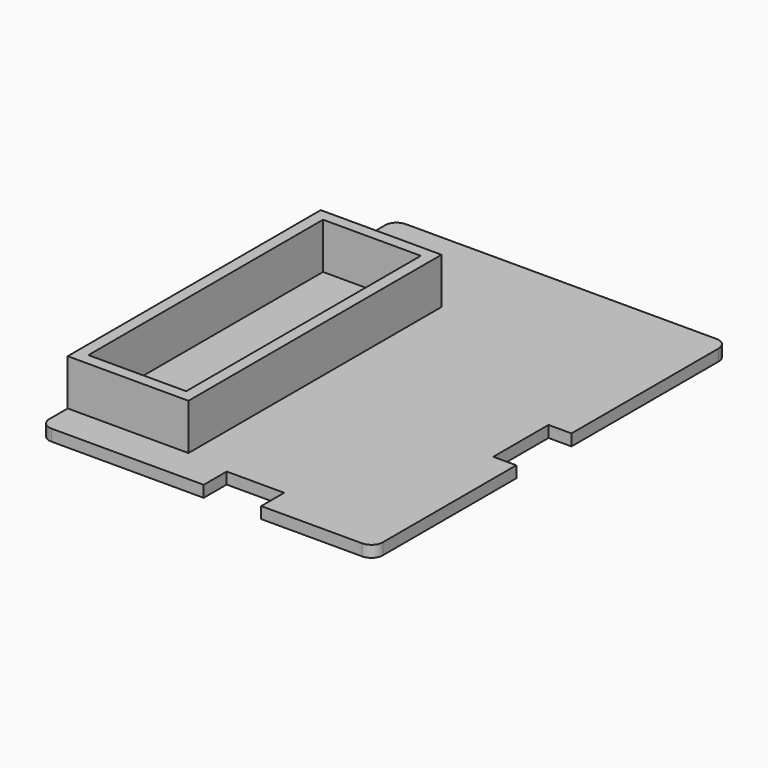
from build123d import *

# Parameters (mm, degrees)
F1_DEPTH = 2
F2_DEPTH = 10
F3_T     = -2
F4_R     = 2


with BuildPart() as f1:
    # F0 (on Top) → F1 (new body)
    with BuildSketch(Plane.XY):
        Polygon((18.3934628367, 39.4180682003), (-3.6065371633, 39.4180682003), (-3.6065371633, 23.4180682003), (17.3934628367, 23.4180682003), (17.3934628367, -31.5819317997), (-3.6065371633, -31.5819317997), (-3.6065371633, -37.5819317997), (24.8428341001, -37.5819317997), (24.8428341001, -32.5819317997), (34.8428341001, -32.5819317997), (34.8428341001, -37.5819317997), (54.3934628367, -37.5819317997), (54.3934628367, -6.5819317997), (50.3934628367, -6.5819317997), (50.3934628367, 5.4180682003), (54.3934628367, 5.4180682003), (54.3934628367, 17.4180682003), (54.3934628367, 39.4180682003), (32.3934628367, 39.4180682003), align=None)
        Polygon((17.3934628367, 23.4180682003), (-3.6065371633, 23.4180682003), (-3.6065371633, 17.4180682003), (-3.6065371633, -31.5819317997), (17.3934628367, -31.5819317997), align=None)
    extrude(amount=F1_DEPTH)

    # F0 (on Top) → F2 (join)
    with BuildSketch(Plane.XY):
        Polygon((17.3934628367, 23.4180682003), (-3.6065371633, 23.4180682003), (-3.6065371633, 17.4180682003), (-3.6065371633, -31.5819317997), (17.3934628367, -31.5819317997), align=None)
    extrude(amount=F2_DEPTH)

    # F3
    f3_openings = [f1.faces().sort_by_distance(p)[0] for p in [
        (6.893463, -4.081932, 10),
    ]]
    offset(amount=F3_T, openings=f3_openings, kind=Kind.INTERSECTION)

    # F4
    f4_edges = [f1.edges().sort_by_distance(p)[0] for p in [
        (54.393463, 39.418068, 1),
        (-3.606537, 39.418068, 1),
        (54.393463, -37.581932, 1),
        (-3.606537, -37.581932, 1),
    ]]
    fillet(f4_edges, radius=F4_R)


solid = f1.part
